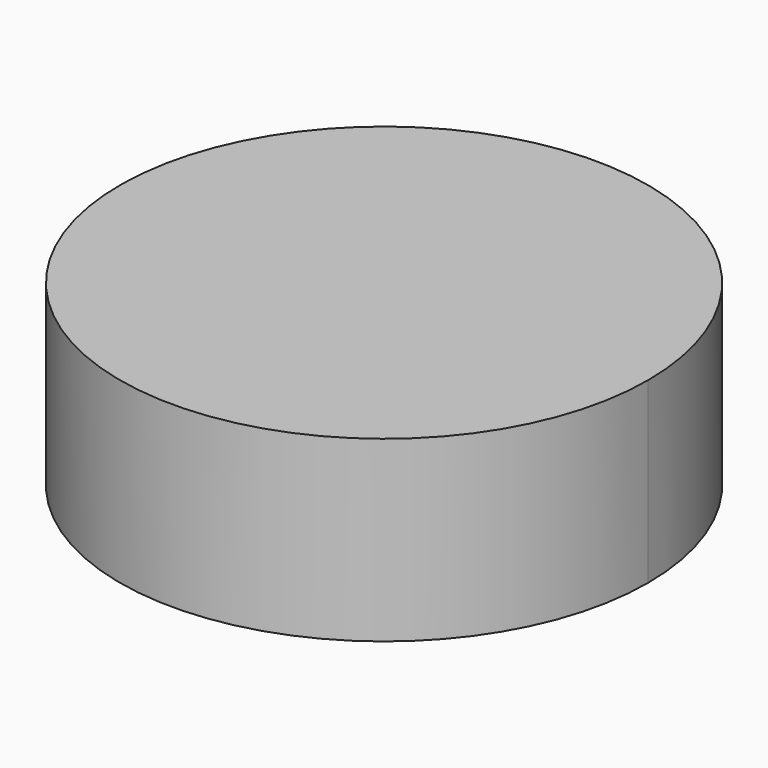
from build123d import *

# Parameters (mm, degrees)
F1_DEPTH = 3.175


with BuildPart() as f1:
    # F0 (on Top) → F1 (new body)
    with BuildSketch(Plane.XY):
        with BuildLine():
            ThreePointArc((-1.702756, 4.799325), (-4.916246, 9.257335), (-10.161518, 7.617976))
            ThreePointArc((-10.161518, 7.617976), (-7.887267, 0.341314), (-1.702756, 4.799325))
        make_face()
    extrude(amount=F1_DEPTH)


solid = f1.part
